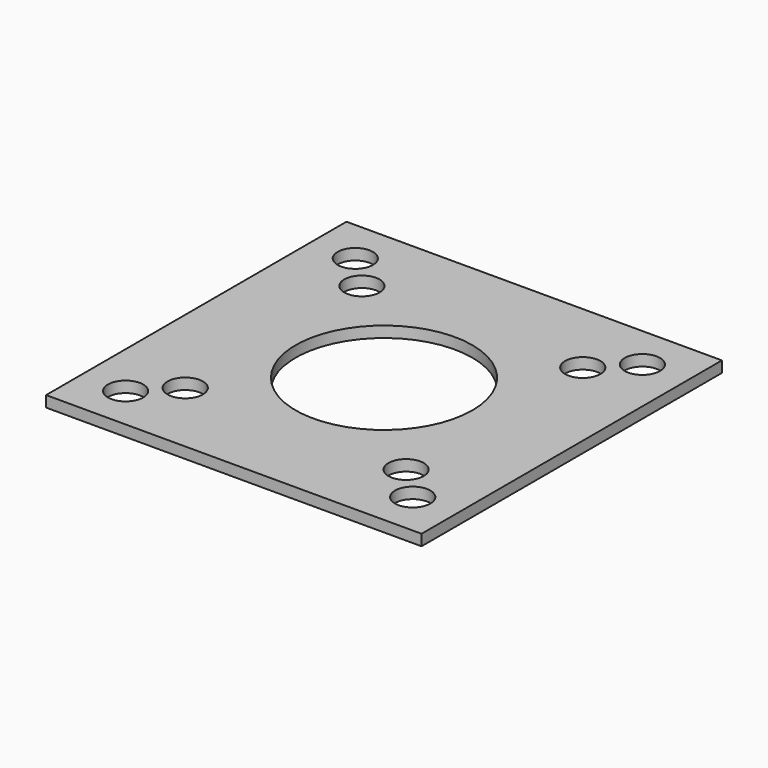
from build123d import *

# Parameters (mm, degrees)
SKETCH_W        = 34
SKETCH_H        = 34
SKETCH_R        = 8
PAD_DEPTH       = 1
SKETCH001_R     = 1.6
POCKET_DEPTH    = 5
SKETCH002_R     = 1.6
POCKET001_DEPTH = 5


with BuildPart() as part:
    # Sketch → Pad (new body)
    with BuildSketch(Plane.XY):
        Rectangle(SKETCH_W, SKETCH_H)
        Circle(SKETCH_R, mode=Mode.SUBTRACT)
    extrude(amount=PAD_DEPTH)

    # Sketch001 (on Face7 of Pad) → Pocket (cut)
    with BuildSketch(Plane.XY.offset(1)):
        with Locations((10, 10)):
            Circle(SKETCH001_R)
        with Locations((10, -10)):
            Circle(SKETCH001_R)
        with Locations((-10, 10)):
            Circle(SKETCH001_R)
        with Locations((-10, -10)):
            Circle(SKETCH001_R)
    extrude(amount=-POCKET_DEPTH, mode=Mode.SUBTRACT)

    # Sketch002 (on Face5 of Pocket) → Pocket001 (cut)
    with BuildSketch(Plane.XY.offset(1)):
        with Locations((-13, 13)):
            Circle(SKETCH002_R)
        with Locations((13, 13)):
            Circle(SKETCH002_R)
        with Locations((-13, -13)):
            Circle(SKETCH002_R)
        with Locations((13, -13)):
            Circle(SKETCH002_R)
    extrude(amount=-POCKET001_DEPTH, mode=Mode.SUBTRACT)


solid = part.part
